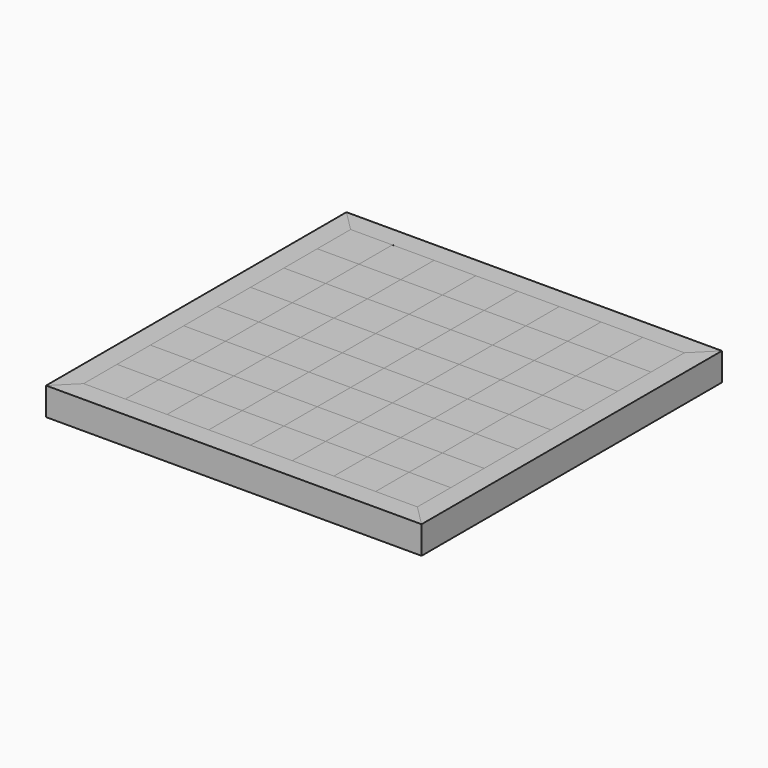
from build123d import *

# Parameters (mm, degrees)
F1_W      = 38.1
F1_H      = 38.1
F3_DEPTH  = 25.4
F4_DEPTH  = 25.4
F5_DEPTH  = 25.4
F6_DEPTH  = 25.4
F7_DEPTH  = 25.4
F8_DEPTH  = 25.4
F9_DEPTH  = 25.4
F10_DEPTH = 25.4
F11_DEPTH = 25.4
F12_DEPTH = 25.4
F13_DEPTH = 25.4
F14_DEPTH = 25.4
F15_DEPTH = 25.4
F16_DEPTH = 25.4
F17_DEPTH = 25.4
F18_DEPTH = 25.4
F19_DEPTH = 25.4
F20_DEPTH = 25.4
F21_DEPTH = 25.4
F22_DEPTH = 25.4
F23_DEPTH = 25.4
F24_DEPTH = 25.4
F25_DEPTH = 25.4
F26_DEPTH = 25.4
F27_DEPTH = 25.4
F28_DEPTH = 25.4
F29_DEPTH = 25.4
F30_DEPTH = 25.4
F31_DEPTH = 25.4
F32_DEPTH = 25.4
F33_DEPTH = 25.4
F34_DEPTH = 25.4
F35_DEPTH = 25.4
F36_DEPTH = 25.4
F37_DEPTH = 25.4
F38_DEPTH = 25.4
F39_DEPTH = 25.4
F40_DEPTH = 25.4
F41_DEPTH = 25.4
F42_DEPTH = 25.4
F43_DEPTH = 25.4
F44_DEPTH = 25.4
F45_DEPTH = 25.4
F46_DEPTH = 25.4
F47_DEPTH = 25.4
F48_DEPTH = 25.4
F49_DEPTH = 25.4
F50_DEPTH = 25.4
F51_DEPTH = 25.4
F52_DEPTH = 25.4
F53_DEPTH = 25.4
F54_DEPTH = 25.4
F55_DEPTH = 25.4
F56_DEPTH = 25.4
F57_DEPTH = 25.4
F58_DEPTH = 25.4
F59_DEPTH = 25.4
F60_DEPTH = 25.4
F61_DEPTH = 25.4
F62_DEPTH = 25.4
F63_DEPTH = 25.4
F64_DEPTH = 25.4
F65_DEPTH = 25.4
F66_DEPTH = 25.4
F67_DEPTH = 25.4
F68_DEPTH = 25.4
F69_DEPTH = 25.4
F70_DEPTH = 25.4


with BuildPart() as f3:
    # F1 (on face) → F3 (new body)
    with BuildSketch(Plane.XY):
        with Locations((-133.35, -133.35)):
            Rectangle(F1_W, F1_H)
    extrude(amount=-F3_DEPTH)


with BuildPart() as f4:
    # F1 (on face) → F4 (new body)
    with BuildSketch(Plane.XY):
        with Locations((-133.35, -95.25)):
            Rectangle(F1_W, F1_H)
    extrude(amount=-F4_DEPTH)


with BuildPart() as f5:
    # F1 (on face) → F5 (new body)
    with BuildSketch(Plane.XY):
        with Locations((-133.35, 19.05)):
            Rectangle(F1_W, F1_H)
    extrude(amount=-F5_DEPTH)


with BuildPart() as f6:
    # F1 (on face) → F6 (new body)
    with BuildSketch(Plane.XY):
        with Locations((-133.35, -57.15)):
            Rectangle(F1_W, F1_H)
    extrude(amount=-F6_DEPTH)


with BuildPart() as f7:
    # F1 (on face) → F7 (new body)
    with BuildSketch(Plane.XY):
        with Locations((-133.35, -19.05)):
            Rectangle(F1_W, F1_H)
    extrude(amount=-F7_DEPTH)


with BuildPart() as f8:
    # F1 (on face) → F8 (new body)
    with BuildSketch(Plane.XY):
        with Locations((-133.35, 57.15)):
            Rectangle(F1_W, F1_H)
    extrude(amount=-F8_DEPTH)


with BuildPart() as f9:
    # F1 (on face) → F9 (new body)
    with BuildSketch(Plane.XY):
        with Locations((-133.35, 95.25)):
            Rectangle(F1_W, F1_H)
    extrude(amount=-F9_DEPTH)


with BuildPart() as f10:
    # F1 (on face) → F10 (new body)
    with BuildSketch(Plane.XY):
        with Locations((-133.35, 133.35)):
            Rectangle(F1_W, F1_H)
    extrude(amount=-F10_DEPTH)


with BuildPart() as f11:
    # F1 (on face) → F11 (new body)
    with BuildSketch(Plane.XY):
        with Locations((-95.25, 133.35)):
            Rectangle(F1_W, F1_H)
    extrude(amount=-F11_DEPTH)


with BuildPart() as f12:
    # F1 (on face) → F12 (new body)
    with BuildSketch(Plane.XY):
        with Locations((-95.25, 95.25)):
            Rectangle(F1_W, F1_H)
    extrude(amount=-F12_DEPTH)


with BuildPart() as f13:
    # F1 (on face) → F13 (new body)
    with BuildSketch(Plane.XY):
        with Locations((-95.25, 57.15)):
            Rectangle(F1_W, F1_H)
    extrude(amount=-F13_DEPTH)


with BuildPart() as f14:
    # F1 (on face) → F14 (new body)
    with BuildSketch(Plane.XY):
        with Locations((-95.25, 19.05)):
            Rectangle(F1_W, F1_H)
    extrude(amount=-F14_DEPTH)


with BuildPart() as f15:
    # F1 (on face) → F15 (new body)
    with BuildSketch(Plane.XY):
        with Locations((-95.25, -19.05)):
            Rectangle(F1_W, F1_H)
    extrude(amount=-F15_DEPTH)


with BuildPart() as f16:
    # F1 (on face) → F16 (new body)
    with BuildSketch(Plane.XY):
        with Locations((-95.25, -57.15)):
            Rectangle(F1_W, F1_H)
    extrude(amount=-F16_DEPTH)


with BuildPart() as f17:
    # F1 (on face) → F17 (new body)
    with BuildSketch(Plane.XY):
        with Locations((-95.25, -95.25)):
            Rectangle(F1_W, F1_H)
    extrude(amount=-F17_DEPTH)


with BuildPart() as f18:
    # F1 (on face) → F18 (new body)
    with BuildSketch(Plane.XY):
        with Locations((-95.25, -133.35)):
            Rectangle(F1_W, F1_H)
    extrude(amount=-F18_DEPTH)


with BuildPart() as f19:
    # F1 (on face) → F19 (new body)
    with BuildSketch(Plane.XY):
        with Locations((-57.15, 133.35)):
            Rectangle(F1_W, F1_H)
    extrude(amount=-F19_DEPTH)


with BuildPart() as f20:
    # F1 (on face) → F20 (new body)
    with BuildSketch(Plane.XY):
        with Locations((-57.15, 95.25)):
            Rectangle(F1_W, F1_H)
    extrude(amount=-F20_DEPTH)


with BuildPart() as f21:
    # F1 (on face) → F21 (new body)
    with BuildSketch(Plane.XY):
        with Locations((-57.15, 57.15)):
            Rectangle(F1_W, F1_H)
    extrude(amount=-F21_DEPTH)


with BuildPart() as f22:
    # F1 (on face) → F22 (new body)
    with BuildSketch(Plane.XY):
        with Locations((-57.15, 19.05)):
            Rectangle(F1_W, F1_H)
    extrude(amount=-F22_DEPTH)


with BuildPart() as f23:
    # F1 (on face) → F23 (new body)
    with BuildSketch(Plane.XY):
        with Locations((-57.15, -19.05)):
            Rectangle(F1_W, F1_H)
    extrude(amount=-F23_DEPTH)


with BuildPart() as f24:
    # F1 (on face) → F24 (new body)
    with BuildSketch(Plane.XY):
        with Locations((-57.15, -57.15)):
            Rectangle(F1_W, F1_H)
    extrude(amount=-F24_DEPTH)


with BuildPart() as f25:
    # F1 (on face) → F25 (new body)
    with BuildSketch(Plane.XY):
        with Locations((-57.15, -95.25)):
            Rectangle(F1_W, F1_H)
    extrude(amount=-F25_DEPTH)


with BuildPart() as f26:
    # F1 (on face) → F26 (new body)
    with BuildSketch(Plane.XY):
        with Locations((-57.15, -133.35)):
            Rectangle(F1_W, F1_H)
    extrude(amount=-F26_DEPTH)


with BuildPart() as f27:
    # F1 (on face) → F27 (new body)
    with BuildSketch(Plane.XY):
        with Locations((-19.05, 133.35)):
            Rectangle(F1_W, F1_H)
    extrude(amount=-F27_DEPTH)


with BuildPart() as f28:
    # F1 (on face) → F28 (new body)
    with BuildSketch(Plane.XY):
        with Locations((-19.05, 95.25)):
            Rectangle(F1_W, F1_H)
    extrude(amount=-F28_DEPTH)


with BuildPart() as f29:
    # F1 (on face) → F29 (new body)
    with BuildSketch(Plane.XY):
        with Locations((-19.05, 57.15)):
            Rectangle(F1_W, F1_H)
    extrude(amount=-F29_DEPTH)


with BuildPart() as f30:
    # F1 (on face) → F30 (new body)
    with BuildSketch(Plane.XY):
        with Locations((-19.05, 19.05)):
            Rectangle(F1_W, F1_H)
    extrude(amount=-F30_DEPTH)


with BuildPart() as f31:
    # F1 (on face) → F31 (new body)
    with BuildSketch(Plane.XY):
        with Locations((-19.05, -19.05)):
            Rectangle(F1_W, F1_H)
    extrude(amount=-F31_DEPTH)


with BuildPart() as f32:
    # F1 (on face) → F32 (new body)
    with BuildSketch(Plane.XY):
        with Locations((-19.05, -57.15)):
            Rectangle(F1_W, F1_H)
    extrude(amount=-F32_DEPTH)


with BuildPart() as f33:
    # F1 (on face) → F33 (new body)
    with BuildSketch(Plane.XY):
        with Locations((-19.05, -95.25)):
            Rectangle(F1_W, F1_H)
    extrude(amount=-F33_DEPTH)


with BuildPart() as f34:
    # F1 (on face) → F34 (new body)
    with BuildSketch(Plane.XY):
        with Locations((-19.05, -133.35)):
            Rectangle(F1_W, F1_H)
    extrude(amount=-F34_DEPTH)


with BuildPart() as f35:
    # F1 (on face) → F35 (new body)
    with BuildSketch(Plane.XY):
        with Locations((19.05, 133.35)):
            Rectangle(F1_W, F1_H)
    extrude(amount=-F35_DEPTH)


with BuildPart() as f36:
    # F1 (on face) → F36 (new body)
    with BuildSketch(Plane.XY):
        with Locations((19.05, 95.25)):
            Rectangle(F1_W, F1_H)
    extrude(amount=-F36_DEPTH)


with BuildPart() as f37:
    # F1 (on face) → F37 (new body)
    with BuildSketch(Plane.XY):
        with Locations((19.05, 57.15)):
            Rectangle(F1_W, F1_H)
    extrude(amount=-F37_DEPTH)


with BuildPart() as f38:
    # F1 (on face) → F38 (new body)
    with BuildSketch(Plane.XY):
        with Locations((19.05, 19.05)):
            Rectangle(F1_W, F1_H)
    extrude(amount=-F38_DEPTH)


with BuildPart() as f39:
    # F1 (on face) → F39 (new body)
    with BuildSketch(Plane.XY):
        with Locations((19.05, -19.05)):
            Rectangle(F1_W, F1_H)
    extrude(amount=-F39_DEPTH)


with BuildPart() as f40:
    # F1 (on face) → F40 (new body)
    with BuildSketch(Plane.XY):
        with Locations((19.05, -57.15)):
            Rectangle(F1_W, F1_H)
    extrude(amount=-F40_DEPTH)


with BuildPart() as f41:
    # F1 (on face) → F41 (new body)
    with BuildSketch(Plane.XY):
        with Locations((19.05, -95.25)):
            Rectangle(F1_W, F1_H)
    extrude(amount=-F41_DEPTH)


with BuildPart() as f42:
    # F1 (on face) → F42 (new body)
    with BuildSketch(Plane.XY):
        with Locations((19.05, -133.35)):
            Rectangle(F1_W, F1_H)
    extrude(amount=-F42_DEPTH)


with BuildPart() as f43:
    # F1 (on face) → F43 (new body)
    with BuildSketch(Plane.XY):
        with Locations((57.15, 133.35)):
            Rectangle(F1_W, F1_H)
    extrude(amount=-F43_DEPTH)


with BuildPart() as f44:
    # F1 (on face) → F44 (new body)
    with BuildSketch(Plane.XY):
        with Locations((57.15, 95.25)):
            Rectangle(F1_W, F1_H)
    extrude(amount=-F44_DEPTH)


with BuildPart() as f45:
    # F1 (on face) → F45 (new body)
    with BuildSketch(Plane.XY):
        with Locations((57.15, 57.15)):
            Rectangle(F1_W, F1_H)
    extrude(amount=-F45_DEPTH)


with BuildPart() as f46:
    # F1 (on face) → F46 (new body)
    with BuildSketch(Plane.XY):
        with Locations((57.15, 19.05)):
            Rectangle(F1_W, F1_H)
    extrude(amount=-F46_DEPTH)


with BuildPart() as f47:
    # F1 (on face) → F47 (new body)
    with BuildSketch(Plane.XY):
        with Locations((57.15, -19.05)):
            Rectangle(F1_W, F1_H)
    extrude(amount=-F47_DEPTH)


with BuildPart() as f48:
    # F1 (on face) → F48 (new body)
    with BuildSketch(Plane.XY):
        with Locations((57.15, -57.15)):
            Rectangle(F1_W, F1_H)
    extrude(amount=-F48_DEPTH)


with BuildPart() as f49:
    # F1 (on face) → F49 (new body)
    with BuildSketch(Plane.XY):
        with Locations((57.15, -95.25)):
            Rectangle(F1_W, F1_H)
    extrude(amount=-F49_DEPTH)


with BuildPart() as f50:
    # F1 (on face) → F50 (new body)
    with BuildSketch(Plane.XY):
        with Locations((57.15, -133.35)):
            Rectangle(F1_W, F1_H)
    extrude(amount=-F50_DEPTH)


with BuildPart() as f51:
    # F1 (on face) → F51 (new body)
    with BuildSketch(Plane.XY):
        with Locations((95.25, 133.35)):
            Rectangle(F1_W, F1_H)
    extrude(amount=-F51_DEPTH)


with BuildPart() as f52:
    # F1 (on face) → F52 (new body)
    with BuildSketch(Plane.XY):
        with Locations((95.25, 95.25)):
            Rectangle(F1_W, F1_H)
    extrude(amount=-F52_DEPTH)


with BuildPart() as f53:
    # F1 (on face) → F53 (new body)
    with BuildSketch(Plane.XY):
        with Locations((95.25, 57.15)):
            Rectangle(F1_W, F1_H)
    extrude(amount=-F53_DEPTH)


with BuildPart() as f54:
    # F1 (on face) → F54 (new body)
    with BuildSketch(Plane.XY):
        with Locations((95.25, 19.05)):
            Rectangle(F1_W, F1_H)
    extrude(amount=-F54_DEPTH)


with BuildPart() as f55:
    # F1 (on face) → F55 (new body)
    with BuildSketch(Plane.XY):
        with Locations((95.25, -19.05)):
            Rectangle(F1_W, F1_H)
    extrude(amount=-F55_DEPTH)


with BuildPart() as f56:
    # F1 (on face) → F56 (new body)
    with BuildSketch(Plane.XY):
        with Locations((95.25, -57.15)):
            Rectangle(F1_W, F1_H)
    extrude(amount=-F56_DEPTH)


with BuildPart() as f57:
    # F1 (on face) → F57 (new body)
    with BuildSketch(Plane.XY):
        with Locations((95.25, -95.25)):
            Rectangle(F1_W, F1_H)
    extrude(amount=-F57_DEPTH)


with BuildPart() as f58:
    # F1 (on face) → F58 (new body)
    with BuildSketch(Plane.XY):
        with Locations((95.25, -133.35)):
            Rectangle(F1_W, F1_H)
    extrude(amount=-F58_DEPTH)


with BuildPart() as f59:
    # F1 (on face) → F59 (new body)
    with BuildSketch(Plane.XY):
        with Locations((133.35, 133.35)):
            Rectangle(F1_W, F1_H)
    extrude(amount=-F59_DEPTH)


with BuildPart() as f60:
    # F1 (on face) → F60 (new body)
    with BuildSketch(Plane.XY):
        with Locations((133.35, 95.25)):
            Rectangle(F1_W, F1_H)
    extrude(amount=-F60_DEPTH)


with BuildPart() as f61:
    # F1 (on face) → F61 (new body)
    with BuildSketch(Plane.XY):
        with Locations((133.35, 57.15)):
            Rectangle(F1_W, F1_H)
    extrude(amount=-F61_DEPTH)


with BuildPart() as f62:
    # F1 (on face) → F62 (new body)
    with BuildSketch(Plane.XY):
        with Locations((133.35, 19.05)):
            Rectangle(F1_W, F1_H)
    extrude(amount=-F62_DEPTH)


with BuildPart() as f63:
    # F1 (on face) → F63 (new body)
    with BuildSketch(Plane.XY):
        with Locations((133.35, -19.05)):
            Rectangle(F1_W, F1_H)
    extrude(amount=-F63_DEPTH)


with BuildPart() as f64:
    # F1 (on face) → F64 (new body)
    with BuildSketch(Plane.XY):
        with Locations((133.35, -57.15)):
            Rectangle(F1_W, F1_H)
    extrude(amount=-F64_DEPTH)


with BuildPart() as f65:
    # F1 (on face) → F65 (new body)
    with BuildSketch(Plane.XY):
        with Locations((133.35, -95.25)):
            Rectangle(F1_W, F1_H)
    extrude(amount=-F65_DEPTH)


with BuildPart() as f66:
    # F1 (on face) → F66 (new body)
    with BuildSketch(Plane.XY):
        with Locations((133.35, -133.35)):
            Rectangle(F1_W, F1_H)
    extrude(amount=-F66_DEPTH)


with BuildPart() as f67:
    # F2 (on face) → F67 (new body)
    with BuildSketch(Plane.XY):
        Polygon((-152.4, -152.4), (-152.4, 152.4), (-171.45, 171.45), (-171.45, -171.45), align=None)
    extrude(amount=-F67_DEPTH)


with BuildPart() as f68:
    # F2 (on face) → F68 (new body)
    with BuildSketch(Plane.XY):
        Polygon((-171.45, 171.45), (-152.4, 152.4), (152.4, 152.4), (171.45, 171.45), align=None)
    extrude(amount=-F68_DEPTH)


with BuildPart() as f69:
    # F2 (on face) → F69 (new body)
    with BuildSketch(Plane.XY):
        Polygon((171.45, 171.45), (152.4, 152.4), (152.4, -152.4), (171.45, -171.45), align=None)
    extrude(amount=-F69_DEPTH)


with BuildPart() as f70:
    # F2 (on face) → F70 (new body)
    with BuildSketch(Plane.XY):
        Polygon((152.4, -152.4), (-152.4, -152.4), (-171.45, -171.45), (171.45, -171.45), align=None)
    extrude(amount=-F70_DEPTH)


solid = Compound([f3.part, f4.part, f5.part, f6.part, f7.part, f8.part, f9.part, f10.part, f11.part, f12.part, f13.part, f14.part, f15.part, f16.part, f17.part, f18.part, f19.part, f20.part, f21.part, f22.part, f23.part, f24.part, f25.part, f26.part, f27.part, f28.part, f29.part, f30.part, f31.part, f32.part, f33.part, f34.part, f35.part, f36.part, f37.part, f38.part, f39.part, f40.part, f41.part, f42.part, f43.part, f44.part, f45.part, f46.part, f47.part, f48.part, f49.part, f50.part, f51.part, f52.part, f53.part, f54.part, f55.part, f56.part, f57.part, f58.part, f59.part, f60.part, f61.part, f62.part, f63.part, f64.part, f65.part, f66.part, f67.part, f68.part, f69.part, f70.part])
